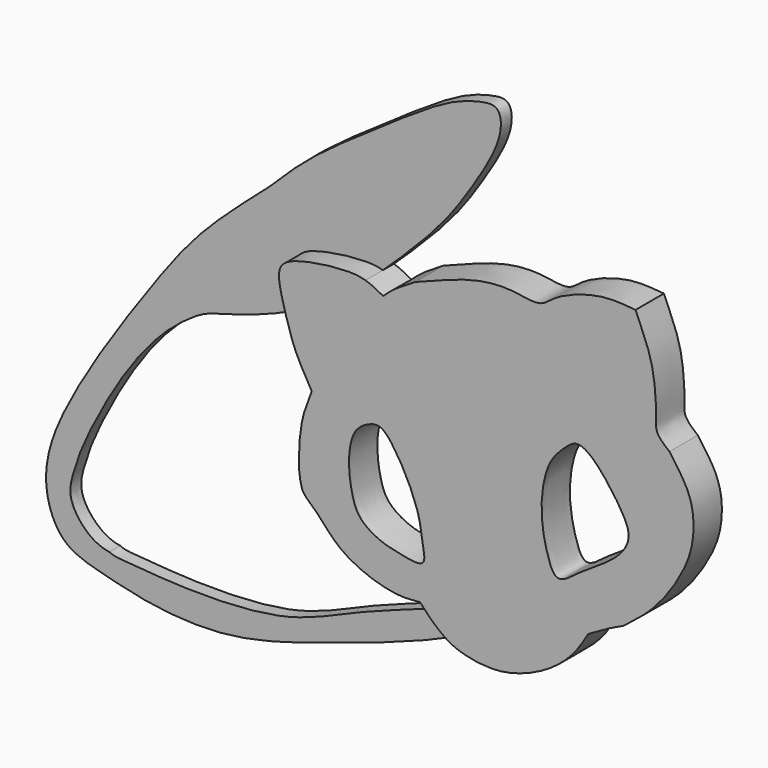
from build123d import *

# Parameters (mm, degrees)
F1_DEPTH = 1.27
F2_DEPTH = 3.302


with BuildPart() as f1:
    # F0 (on Front) → F1 (new body)
    with BuildSketch(Plane.XZ):
        with BuildLine():
            add(Edge.make_bspline(
                [(-19.4980184097, 10.1359002292), (-21.2865603263, 9.3493851698), (-25.1553062444, 7.6480960375), (-32.9628273352, 5.1392041198), (-41.1043799434, 2.4706946228), (-48.8383408551, 2.7289682214), (-53.0502460897, 3.8824273671), (-55.0657900531, 4.4343979098)],
                knots=[0, 0, 0, 0, 0.1819472995, 0.3935652084, 0.6105642984, 0.8136413965, 1, 1, 1, 1], degree=3))
            add(Edge.make_bspline(
                [(-19.4980184097, 10.1359002292), (-20.2966286978, 10.5297396517), (-21.0606403725, 11.1932332052), (-21.5986259282, 11.7104072124)],
                knots=[0.3582119883, 0.3582119883, 0.3582119883, 0.3582119883, 0.7339487965, 0.7339487965, 0.7339487965, 0.7339487965], degree=3))
            add(Edge.make_bspline(
                [(-53.0502460897, 6.0232589021), (-52.6213511132, 5.8045870029), (-51.2584814541, 5.7443079886), (-46.0868040903, 5.238700949), (-36.6070897052, 5.4244302757), (-30.314905582, 8.6040159858), (-24.1475932001, 10.7250078422), (-22.3146067142, 11.4395559744), (-21.5986259282, 11.7104072124)],
                knots=[0, 0, 0, 0, 0.0944658603, 0.2625830766, 0.491770902, 0.6931991188, 0.8801225043, 1, 1, 1, 1], degree=3))
            add(Edge.make_bspline(
                [(-34.9767432438, 32.0521566405), (-35.5061735855, 31.6796343834), (-36.8707157706, 30.7169554243), (-42.5782231257, 28.882372513), (-44.3703282629, 28.5221171081), (-48.2445313282, 25.7871746762), (-52.3459483395, 20.4135717725), (-55.657205722, 13.9393059572), (-56.2679522749, 11.805410964), (-57.0972583727, 9.3354991341), (-55.2055097306, 6.7482226877), (-53.7493745248, 6.1164570158), (-53.0502460897, 6.0232589021)],
                knots=[0, 0, 0, 0, 0.0804941311, 0.2076708945, 0.2813172197, 0.3900338849, 0.5322038433, 0.6726966925, 0.7510684467, 0.8312703631, 0.9215525737, 1, 1, 1, 1], degree=3))
            add(Edge.make_bspline(
                [(-27.5922827423, 37.4060608447), (-28.2755015456, 37.6020561785), (-30.0261371385, 37.6713902047), (-33.7485945978, 37.1206110724), (-36.0435991794, 36.0564506802), (-35.4321083624, 33.7366391612), (-35.0696091242, 32.3830767366), (-34.9767432438, 32.0521566405)],
                knots=[0.1151456515, 0.1151456515, 0.1151456515, 0.1151456515, 0.2479122111, 0.4161896337, 0.5387701595, 0.6814987627, 0.7283859827, 0.7283859827, 0.7283859827, 0.7283859827], degree=3))
            add(Edge.make_bspline(
                [(-38.1054393947, 40.863532573), (-36.9326032959, 42.0312726537), (-34.3331206127, 44.6194604844), (-28.2004988677, 48.7884110842), (-21.8778027754, 53.1876006015), (-18.8385524922, 54.1545761657), (-16.6362197095, 54.4917167063), (-16.4131026591, 51.6217121097), (-19.1033262399, 47.1763410396), (-21.8799577007, 43.0153166958), (-25.8824197759, 39.0121070679), (-27.113052166, 37.8561942602), (-27.5922827423, 37.4060608447)],
                knots=[0, 0, 0, 0, 0.1094947036, 0.2426848784, 0.3764498573, 0.4623679072, 0.5235844749, 0.5933736886, 0.7029504681, 0.8145629985, 0.9277874678, 1, 1, 1, 1], degree=3))
            add(Edge.make_bspline(
                [(-55.0657900531, 4.4343979098), (-55.8704830395, 4.7207342442), (-57.5130601562, 5.3694438547), (-59.2503929568, 8.8320368182), (-58.7377273677, 15.2394006371), (-49.029743364, 29.4025837456), (-44.5821647292, 35.2099478109), (-40.2898652388, 38.9567977521), (-38.1054393947, 40.863532573)],
                knots=[0, 0, 0, 0, 0.1005751101, 0.2170244123, 0.3756048929, 0.638148842, 0.8163937126, 1, 1, 1, 1], degree=3))
        make_face()
    extrude(amount=F1_DEPTH)

    # F0 (on Front) → F2 (join)
    with BuildSketch(Plane.XZ):
        with BuildLine():
            add(Edge.make_bspline(
                [(-6.8482430652, 15.1609228924), (-6.0133745851, 15.6382661306), (-4.6263326861, 16.4313192731), (-3.8381294282, 16.7796672359), (-3.5243502352, 16.9183425605)],
                knots=[0, 0, 0, 0, 0.6019057396, 1, 1, 1, 1], degree=3))
            add(Edge.make_bspline(
                [(-3.5243502352, 16.9183425605), (-2.6376649877, 17.6043074804), (-0.8477284585, 18.9890532753), (1.2743356681, 21.767087587), (2.9443008109, 25.0140323558), (3.0454802783, 28.2495052217), (2.3075998308, 30.3841746503), (1.2602695243, 31.8157603625), (0.7102345116, 32.5675979257)],
                knots=[0, 0, 0, 0, 0.1746388788, 0.3525405542, 0.5344559878, 0.7024486369, 0.8437325199, 1, 1, 1, 1], degree=3))
            add(Edge.make_bspline(
                [(0.7102345116, 32.5675979257), (0.2525557779, 32.9476349423), (-0.6211236476, 33.6731012966), (-0.4710547385, 35.111393401), (-0.6819170334, 39.0774894528), (-1.8198515028, 41.6904474549), (-2.2604402925, 42.7225558147), (-2.4444370065, 43.1535802782)],
                knots=[0, 0, 0, 0, 0.1723209971, 0.3289497603, 0.6001315457, 0.8330087298, 1, 1, 1, 1], degree=3))
            add(Edge.make_bspline(
                [(-2.4444370065, 43.1535802782), (-3.5602752231, 43.2598777698), (-5.8989587498, 43.4826665119), (-10.0088400781, 41.9116359694), (-11.2670387087, 40.4303821939), (-14.172358414, 41.2168899454), (-17.6265437841, 40.8075663153), (-20.6790658609, 39.6419442545), (-22.2509225639, 39.0407604512), (-22.9784958065, 38.7624874711)],
                knots=[0, 0, 0, 0, 0.1545761774, 0.3239759621, 0.4320537346, 0.5667842231, 0.7227208062, 0.8716543806, 1, 1, 1, 1], degree=3))
            add(Edge.make_bspline(
                [(-22.9784958065, 38.7624874711), (-23.6577785567, 38.357209125), (-24.8769541165, 37.629816218), (-25.6194937896, 36.9488311955), (-25.9483158588, 36.6472676396)],
                knots=[0, 0, 0, 0, 0.5571656558, 1, 1, 1, 1], degree=3))
            add(Edge.make_bspline(
                [(-25.9483158588, 36.6472676396), (-26.4740286342, 36.9416729218), (-26.9997414095, 37.2360782041), (-27.5922827423, 37.4060608447)],
                knots=[0, 0, 0, 0, 0.1151456515, 0.1151456515, 0.1151456515, 0.1151456515], degree=3))
            add(Edge.make_bspline(
                [(-27.5922827423, 37.4060608447), (-28.2755015456, 37.6020561785), (-30.0261371385, 37.6713902047), (-33.7485945978, 37.1206110724), (-36.0435991794, 36.0564506802), (-35.4321083624, 33.7366391612), (-35.0696091242, 32.3830767366), (-34.9767432438, 32.0521566405)],
                knots=[0.1151456515, 0.1151456515, 0.1151456515, 0.1151456515, 0.2479122111, 0.4161896337, 0.5387701595, 0.6814987627, 0.7283859827, 0.7283859827, 0.7283859827, 0.7283859827], degree=3))
            add(Edge.make_bspline(
                [(-34.9767432438, 32.0521566405), (-34.7532366395, 31.2557088322), (-34.1702531792, 29.3914414071), (-33.1741896497, 27.685937098), (-32.5919575989, 26.6890134662)],
                knots=[0.7283859827, 0.7283859827, 0.7283859827, 0.7283859827, 0.8412326306, 1, 1, 1, 1], degree=3))
            add(Edge.make_bspline(
                [(-32.5919575989, 26.6890134662), (-32.8945386918, 25.9158957938), (-33.5349320382, 24.2874540144), (-33.781583615, 21.8435384034), (-33.8329642576, 19.8682964543), (-33.5821208447, 18.5581128365), (-33.4224179387, 18.2217117399)],
                knots=[0, 0, 0, 0, 0.2736854592, 0.5404707588, 0.7854206431, 1, 1, 1, 1], degree=3))
            add(Edge.make_bspline(
                [(-22.5051622838, 12.6646552235), (-23.2698993381, 12.585646008), (-25.0409271932, 12.4243177363), (-29.9230854733, 14.0474108498), (-32.0972131041, 17.092986306), (-33.0998644515, 17.6895338337), (-33.4224179387, 18.2217117399)],
                knots=[0, 0, 0, 0, 0.2244698402, 0.5436070913, 0.8143768942, 1, 1, 1, 1], degree=3))
            add(Edge.make_bspline(
                [(-21.5986259282, 11.7104072124), (-21.9795620022, 12.0766070737), (-22.2471741532, 12.3694459222), (-22.5051622838, 12.6646552235)],
                knots=[0.7339487965, 0.7339487965, 0.7339487965, 0.7339487965, 1, 1, 1, 1], degree=3))
            add(Edge.make_bspline(
                [(-19.4980184097, 10.1359002292), (-20.2966286978, 10.5297396517), (-21.0606403725, 11.1932332052), (-21.5986259282, 11.7104072124)],
                knots=[0.3582119883, 0.3582119883, 0.3582119883, 0.3582119883, 0.7339487965, 0.7339487965, 0.7339487965, 0.7339487965], degree=3))
            add(Edge.make_bspline(
                [(-17.2026492655, 9.4844726846), (-17.9438476988, 9.6300464265), (-18.7366562727, 9.7604299545), (-19.4980184097, 10.1359002292)],
                knots=[0, 0, 0, 0, 0.3582119883, 0.3582119883, 0.3582119883, 0.3582119883], degree=3))
            add(Edge.make_bspline(
                [(-17.2026492655, 9.4844726846), (-16.4246267424, 9.4150428389), (-14.6615810403, 9.2577106444), (-10.8732080186, 10.6482508096), (-8.193518423, 12.8971920235), (-7.2729122009, 14.4463207658), (-6.8482430652, 15.1609228924)],
                knots=[0, 0, 0, 0, 0.2236349499, 0.5067702099, 0.7724765881, 1, 1, 1, 1], degree=3))
        make_face()
        with BuildLine():
            add(Edge.make_bspline(
                [(-22.2593601793, 15.9837640822), (-22.5653463949, 15.681460687), (-24.3137477803, 16.0191338429), (-26.0711828049, 16.3538343779), (-28.1853446509, 17.5429290283), (-28.8908014456, 19.4228011755), (-29.2775968034, 22.2082904989), (-28.7882211296, 24.8210720482), (-27.3962498114, 25.7294615315), (-26.1160258389, 26.0740852791), (-24.7821230981, 24.421140555), (-23.492721406, 22.1238829456), (-22.4633786018, 19.4848165808), (-22.347758525, 17.6469351497), (-21.9848447949, 16.2549754261), (-22.2593601793, 15.9837640822)],
                knots=[0, 0, 0, 0, 0.0736709441, 0.1503224423, 0.2304891387, 0.3050952934, 0.3959767319, 0.4817235549, 0.5482382163, 0.6048221398, 0.6785040272, 0.7682920275, 0.8579648281, 0.9339061484, 1, 1, 1, 1], degree=3))
        make_face(mode=Mode.SUBTRACT)
        with BuildLine():
            add(Edge.make_bspline(
                [(-9.6369059756, 18.8192427158), (-10.0888601759, 18.9022391109), (-10.7587332658, 20.5504261787), (-11.4343760832, 23.8883004024), (-10.7924983505, 28.0060455305), (-9.1289657364, 29.6520738583), (-7.9236921034, 30.6901250338), (-6.3679851909, 29.7676391192), (-4.9031113593, 27.9949784066), (-3.4507935251, 25.9051197156), (-2.8578108254, 24.2437587329), (-3.829714655, 22.5066642365), (-5.9619431178, 21.0036857582), (-7.748680448, 19.9415684015), (-9.1559599725, 18.7309222966), (-9.6369059756, 18.8192427158)],
                knots=[0, 0, 0, 0, 0.0687097324, 0.1670111785, 0.2703388361, 0.3478824252, 0.4072022871, 0.4704140785, 0.5499421649, 0.6323768919, 0.697530443, 0.7664525078, 0.8488286698, 0.9268826993, 1, 1, 1, 1], degree=3))
        make_face(mode=Mode.SUBTRACT)
    extrude(amount=F2_DEPTH)


solid = f1.part
